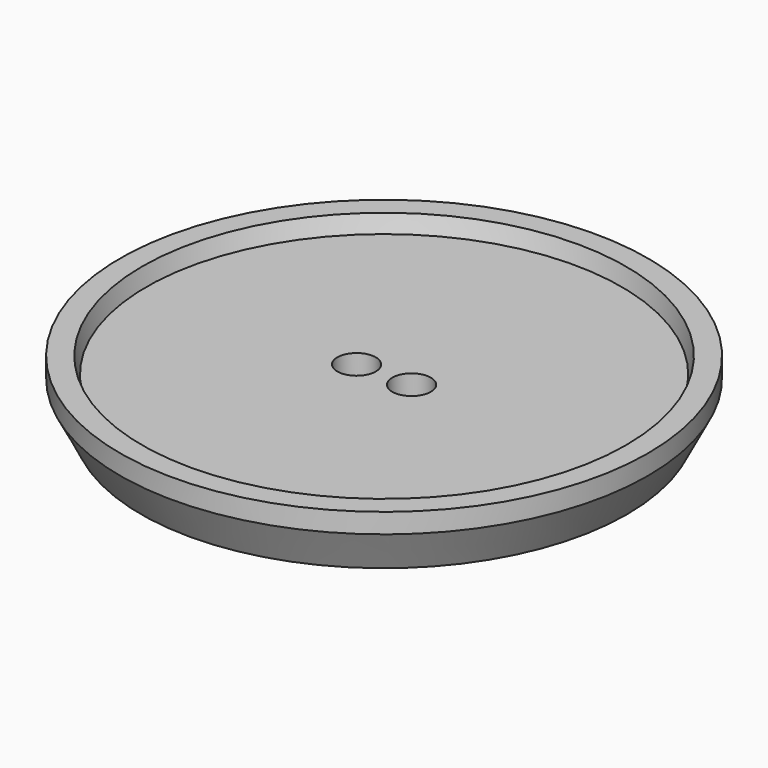
from build123d import *

# Parameters (mm, degrees)
SKETCH091_W           = 44.5
SKETCH091_H           = 1.6
PAD034_DEPTH          = 6
POLARPATTERN017_COUNT = 24
HOLE001_D             = 4.5
HOLE001_DEPTH         = 25
HOLE001_CBORE_D       = 7
HOLE001_CBORE_DEPTH   = 4.4


with BuildPart() as part:
    # Sketch089 → Revolution011 (revolve)
    with BuildSketch(Plane.XZ):
        Polygon((0, 34), (36, 34), (36, 41.4), (43.2, 41.4), (43.2, 34), (44.2, 34), (48, 41.4), (48, 45), (44, 45), (43.2, 42), (0, 42), align=None)
    revolve(axis=Axis((0, 0, 0), (0, 0, 1)))

    # Sketch091 → Pad034 (new body)
    with BuildSketch(Plane(origin=(0, 0, 42), x_dir=(0.991445, 0.130526, 0), z_dir=(0, 0, 1))):
        with Locations((22.25, 0)):
            Rectangle(SKETCH091_W, SKETCH091_H)
    pad034 = extrude(amount=-PAD034_DEPTH)

    # PolarPattern017: Pad034 ×24 about axis
    polarpattern017_axis = Axis((0, 0, 42), (0, 0, 1))
    for i in range(1, POLARPATTERN017_COUNT):
        add(pad034.rotate(polarpattern017_axis, i * 360 / POLARPATTERN017_COUNT))

    # Hole001
    with Locations(Plane(origin=(0, 0, 42), x_dir=(-1, 0, 0), z_dir=(0, 0, 1))):
        with Locations((5, 0), (-5, 0)):
            CounterBoreHole(HOLE001_D / 2, HOLE001_CBORE_D / 2, HOLE001_CBORE_DEPTH, depth=HOLE001_DEPTH)


solid = part.part
